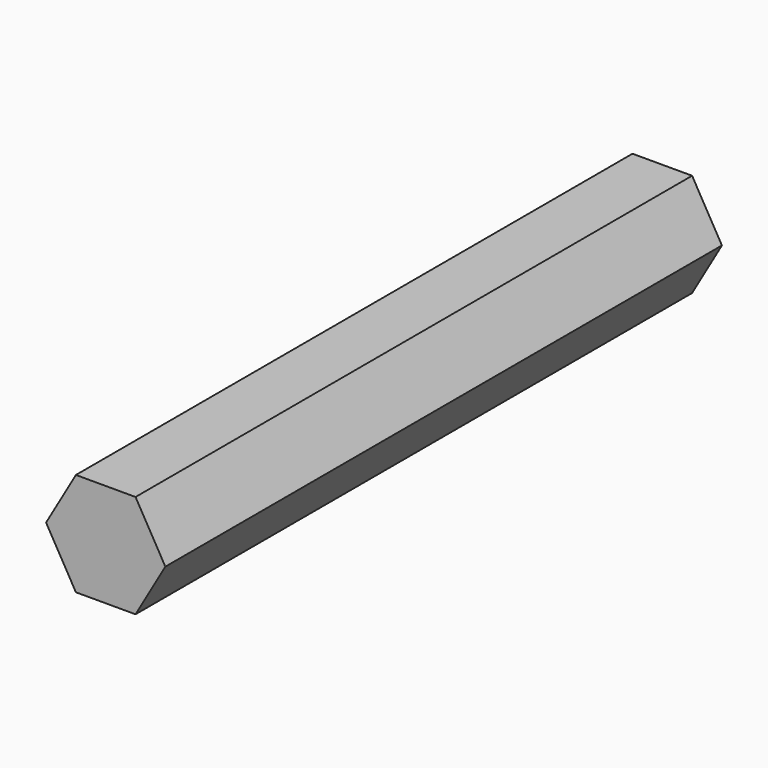
from build123d import *

# Parameters (mm, degrees)
F1_DEPTH = 28
F4_DEPTH = 28


with BuildPart() as f1:
    # F0 (on Front) → F1 (new body)
    with BuildSketch(Plane.XZ):
        Polygon((6.646589714, 11.5122310817), (-6.646589714, 11.5122310817), (-13.293179428, 0), (-6.646589714, -11.5122310817), (6.646589714, -11.5122310817), (13.293179428, 0), align=None)
    extrude(amount=F1_DEPTH)


with BuildPart() as f4:
    # F3 (on Front) → F4 (new body)
    with BuildSketch(Plane.XZ):
        Polygon((1.2, 2.0784609691), (-1.2, 2.0784609691), (-2.4, 0), (-1.2, -2.0784609691), (1.2, -2.0784609691), (2.4, 0), align=None)
    extrude(amount=F4_DEPTH)


solid = f4.part
